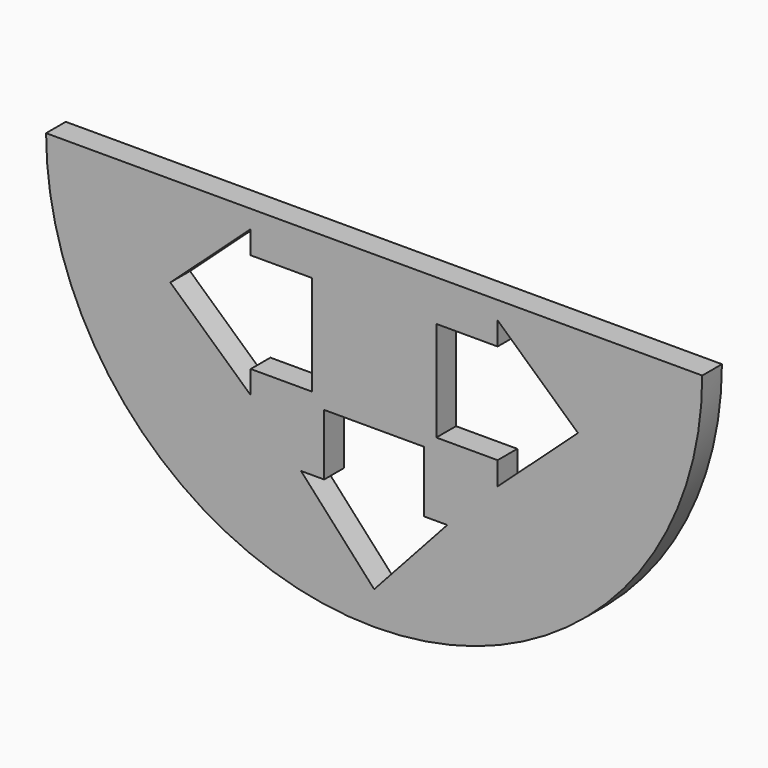
from build123d import *

# Parameters (mm, degrees)
F1_DEPTH = 7.62


with BuildPart() as f1:
    # F0 (on Front) → F1 (new body)
    with BuildSketch(Plane.XZ):
        with BuildLine():
            Line((101.6, 0), (0, 0))
            Line((0, 0), (-101.6, 0))
            ThreePointArc((-101.6, 0), (0, -101.6), (101.6, 0))
        make_face()
        Polygon((22.649135, -66.423178), (0, -91.317579), (-22.649135, -66.423178), (-15.491997, -66.423178), (-15.491997, -47.441199), (0, -47.441199), (15.491997, -47.441199), (15.491997, -66.423178), align=None, mode=Mode.SUBTRACT)
        Polygon((-19.247199, -28.194), (-19.247199, -43.685997), (-38.229178, -43.685997), (-38.229178, -50.843135), (-63.123579, -28.194), (-38.229178, -5.544865), (-38.229178, -12.702003), (-19.247199, -12.702003), align=None, mode=Mode.SUBTRACT)
        Polygon((19.247199, -28.194), (19.247199, -12.702003), (38.229178, -12.702003), (38.229178, -5.544865), (63.123579, -28.194), (38.229178, -50.843135), (38.229178, -43.685997), (19.247199, -43.685997), align=None, mode=Mode.SUBTRACT)
    extrude(amount=F1_DEPTH)


solid = f1.part
